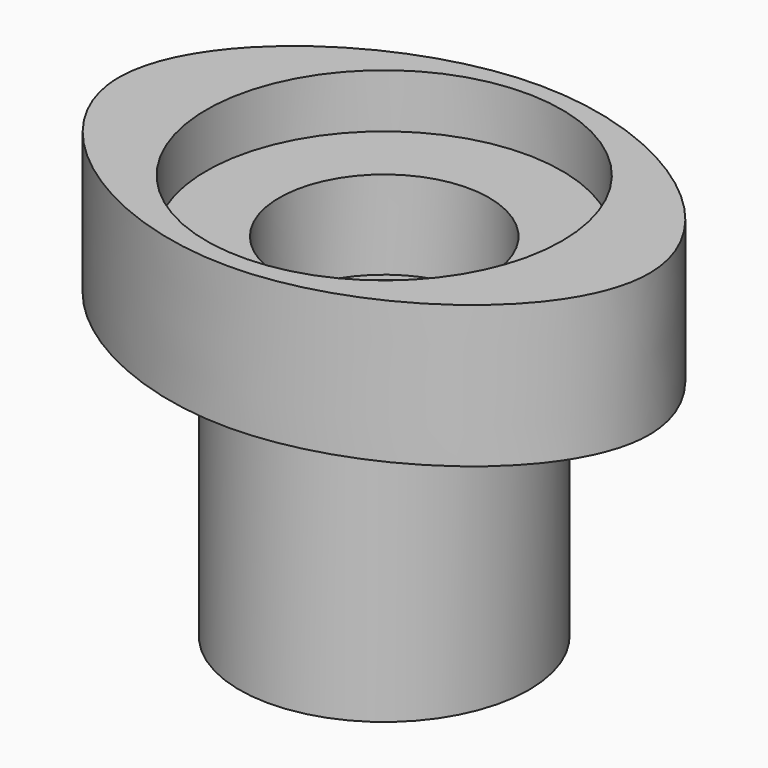
from build123d import *

# Parameters (mm, degrees)
F0_R     = 51.1706883449
F0_R_2   = 30.2002923657
F1_DEPTH = 25.4
F2_DEPTH = 40.894
F3_R     = 41.6790875825
F3_R_2   = 27.6989466926
F4_DEPTH = 75.946


with BuildPart() as f1:
    # F0 (on Top) → F1 (new body)
    with BuildSketch(Plane.XY):
        Circle(F0_R)
        Circle(F0_R_2, mode=Mode.SUBTRACT)
    extrude(amount=F1_DEPTH)

    # F0 (on Top) → F2 (join)
    with BuildSketch(Plane.XY):
        with BuildLine():
            add(Edge.make_bspline(
                [(-76.3547196984, 0), (-76.3224163005, 28.1073778219), (0, 83.9878589563), (114.5321205996, 0.1316301487), (0, -84.7644166463), (-76.3870641482, -28.1430973298), (-76.3547196984, 0)],
                knots=[0, 0, 0, 0, 0.249841248, 0.4996824959, 0.749841248, 1, 1, 1, 1], degree=3))
        make_face()
        Circle(F0_R, mode=Mode.SUBTRACT)
    extrude(amount=F2_DEPTH)

    # F3 (on Top) → F4 (join)
    with BuildSketch(Plane.XY):
        Circle(F3_R)
        Circle(F3_R_2, mode=Mode.SUBTRACT)
    extrude(amount=-F4_DEPTH)


solid = f1.part
